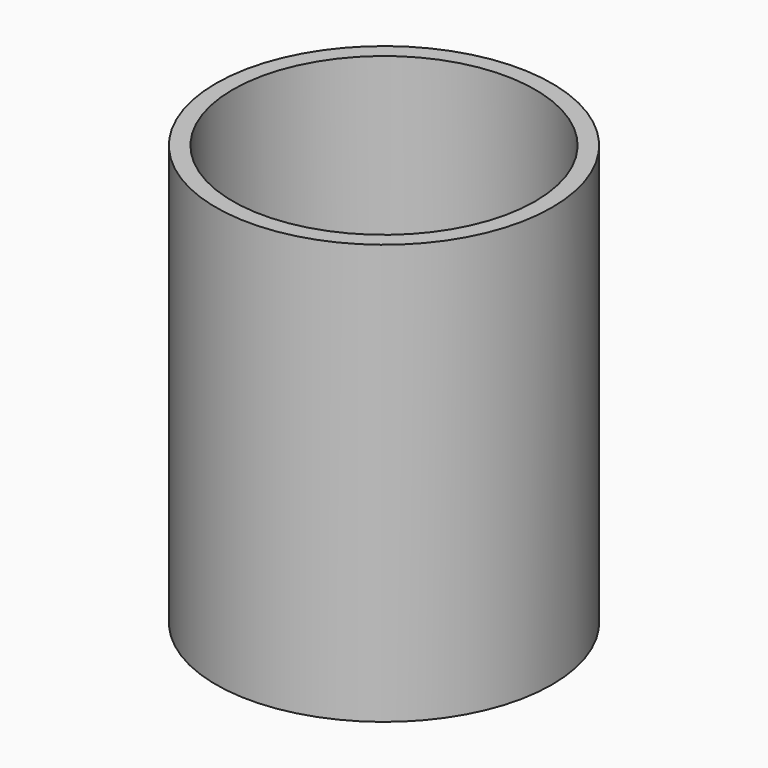
from build123d import *

# Parameters (mm, degrees)
F0_R     = 50
F1_DEPTH = 62.5
F2_T     = -5


with BuildPart() as f1:
    # F0 (on Top) → F1 (new body, symmetric)
    with BuildSketch(Plane.XY):
        Circle(F0_R)
    extrude(amount=F1_DEPTH, both=True)

    # F2
    f2_openings = [f1.faces().sort_by_distance(p)[0] for p in [
        (0, 0, 62.5),
        (0, 0, -62.5),
    ]]
    offset(amount=F2_T, openings=f2_openings)


solid = f1.part
